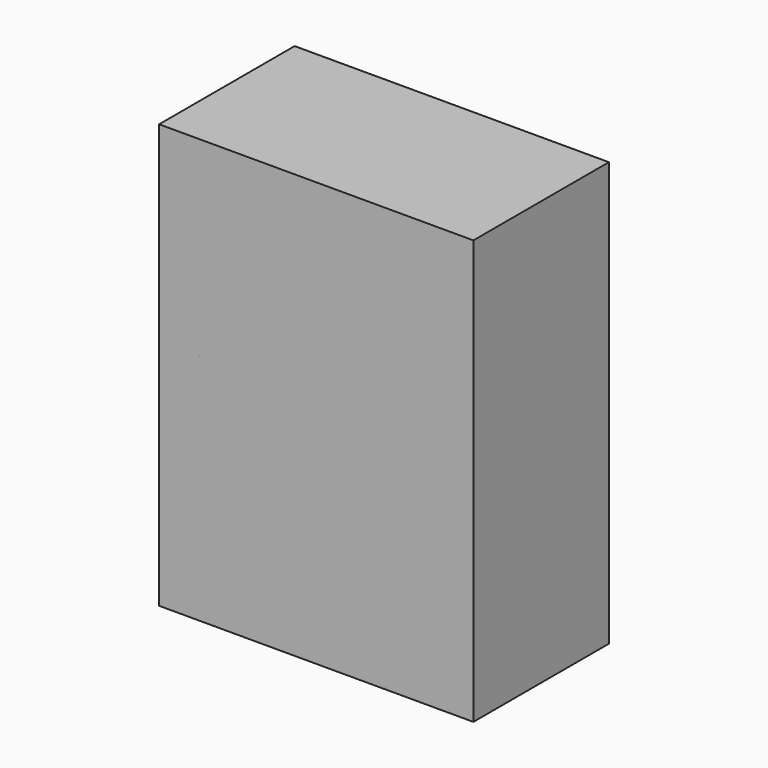
from build123d import *

# Parameters (mm, degrees)
F0_W     = 46.392419
F0_H     = 62.583672
F1_DEPTH = 25
F2_COUNT = 10
F2_ANGLE = 3240


with BuildPart() as f1:
    # F0 (on Front) → F1 (new body)
    with BuildSketch(Plane.XZ):
        with Locations((-143.04332, -8.515789)):
            Rectangle(F0_W, F0_H)
    extrude(amount=F1_DEPTH)


with BuildPart() as f2_1:
    # F2: instance of F1
    add(f1.part.rotate(Axis((-143.043321, -25, 22.776047), (-1, 0, 0)), 1 * F2_ANGLE / (F2_COUNT - 1)))


with BuildPart() as f2_2:
    # F2: instance of F1
    add(f1.part.rotate(Axis((-143.043321, -25, 22.776047), (-1, 0, 0)), 2 * F2_ANGLE / (F2_COUNT - 1)))


with BuildPart() as f2_3:
    # F2: instance of F1
    add(f1.part.rotate(Axis((-143.043321, -25, 22.776047), (-1, 0, 0)), 3 * F2_ANGLE / (F2_COUNT - 1)))


with BuildPart() as f2_4:
    # F2: instance of F1
    add(f1.part.rotate(Axis((-143.043321, -25, 22.776047), (-1, 0, 0)), 4 * F2_ANGLE / (F2_COUNT - 1)))


with BuildPart() as f2_5:
    # F2: instance of F1
    add(f1.part.rotate(Axis((-143.043321, -25, 22.776047), (-1, 0, 0)), 5 * F2_ANGLE / (F2_COUNT - 1)))


with BuildPart() as f2_6:
    # F2: instance of F1
    add(f1.part.rotate(Axis((-143.043321, -25, 22.776047), (-1, 0, 0)), 6 * F2_ANGLE / (F2_COUNT - 1)))


with BuildPart() as f2_7:
    # F2: instance of F1
    add(f1.part.rotate(Axis((-143.043321, -25, 22.776047), (-1, 0, 0)), 7 * F2_ANGLE / (F2_COUNT - 1)))


with BuildPart() as f2_8:
    # F2: instance of F1
    add(f1.part.rotate(Axis((-143.043321, -25, 22.776047), (-1, 0, 0)), 8 * F2_ANGLE / (F2_COUNT - 1)))


with BuildPart() as f2_9:
    # F2: instance of F1
    add(f1.part.rotate(Axis((-143.043321, -25, 22.776047), (-1, 0, 0)), 9 * F2_ANGLE / (F2_COUNT - 1)))


solid = Compound([f1.part, f2_1.part, f2_2.part, f2_3.part, f2_4.part, f2_5.part, f2_6.part, f2_7.part, f2_8.part, f2_9.part])
